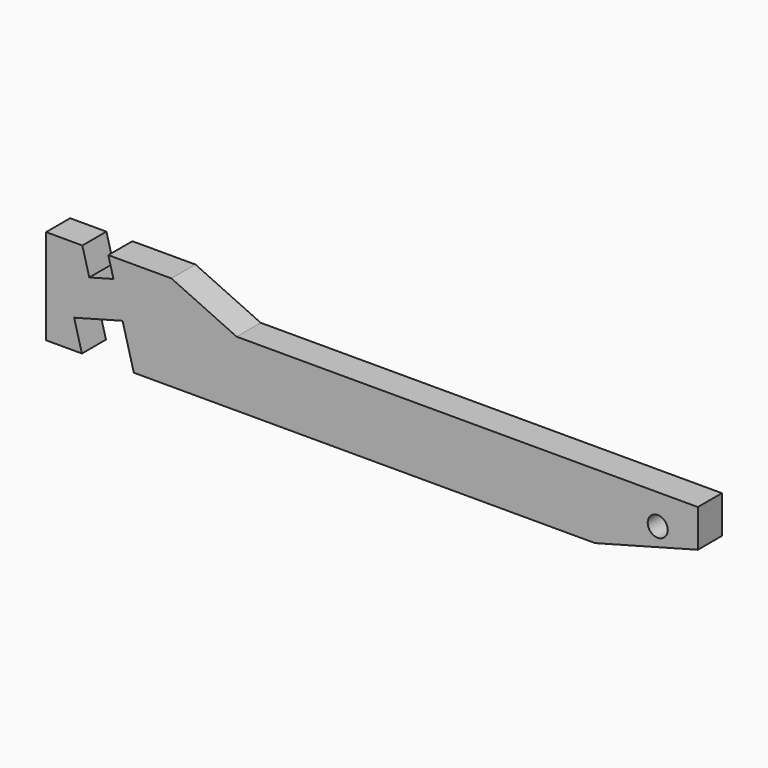
from build123d import *

# Parameters (mm, degrees)
F1_DEPTH = 6
F2_R     = 2
F3_DEPTH = 25
F4_R     = 2
F5_DEPTH = 10


with BuildPart() as f1:
    # F0 (on Front) → F1 (new body)
    with BuildSketch(Plane.XZ):
        Polygon((-38.636893, 10.616255), (-45.869478, 10.616255), (-45.869478, -8.383745), (-38.722239, -8.383745), (-40.275154, -2.58819), (-30.615895, 0), (-28.369478, -8.383745), (63.630522, -8.383745), (84.130522, -2.890787), (84.130522, 4.616255), (-7.869478, 4.616255), (-20.869478, 10.616255), (-33.460512, 10.616255), (-32.425236, 6.752551), (-37.254865, 5.458456), align=None)
    extrude(amount=F1_DEPTH)

    # F2 (on Front) + F1_face (on face) → F3 (cut)
    with BuildSketch(Plane.XZ):
        with Locations((76.130522, -1.383745)):
            Circle(F2_R)
    with BuildSketch(Plane(origin=(14.871895, -6, -0.728123), x_dir=(1, 0, 0), z_dir=(0, -1, 0))):
        Polygon((-52.12676, 6.186579), (-53.508788, 11.344377), (-60.741372, 11.344377), (-60.741372, -7.655623), (-53.594134, -7.655623), (-55.147048, -1.860068), (-45.48779, 0.728123), (-43.241372, -7.655623), (48.758628, -7.655623), (69.258628, -2.162664), (69.258628, 5.344377), (-22.741372, 5.344377), (-35.741372, 11.344377), (-48.332407, 11.344377), (-47.297131, 7.480674), align=None)
    extrude(amount=F3_DEPTH, mode=Mode.SUBTRACT)

    # F4 (on face) → F5 (cut)
    with BuildSketch(Plane(origin=(6.358373, 0, -23.729772), x_dir=(0.965926, 0, 0.258819), z_dir=(0.258819, 0, -0.965926))):
        with Locations((68.515654, 3)):
            Circle(F4_R)
    extrude(amount=-F5_DEPTH, mode=Mode.SUBTRACT)


solid = f1.part
